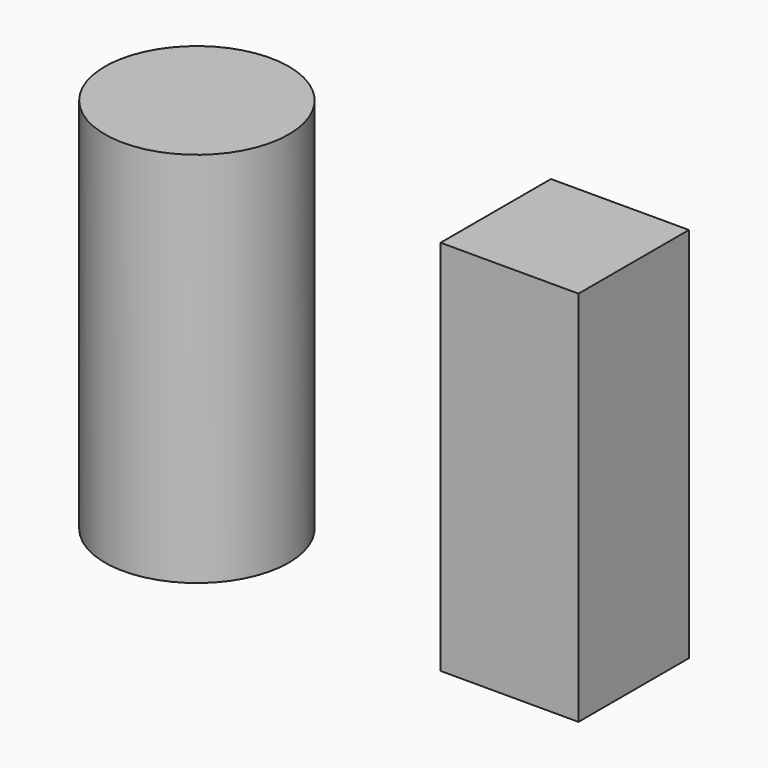
from build123d import *

# Parameters (mm, degrees)
F0_R     = 12.7
F0_W     = 19.05
F0_H     = 19.05
F1_DEPTH = 52.07


with BuildPart() as f1:
    # F0 (on Top) → F1 (new body)
    with BuildSketch(Plane.XY):
        with Locations((-82.55, 0)):
            Circle(F0_R)
        with Locations((-31.75, 0)):
            Rectangle(F0_W, F0_H)
    extrude(amount=F1_DEPTH)


solid = f1.part
